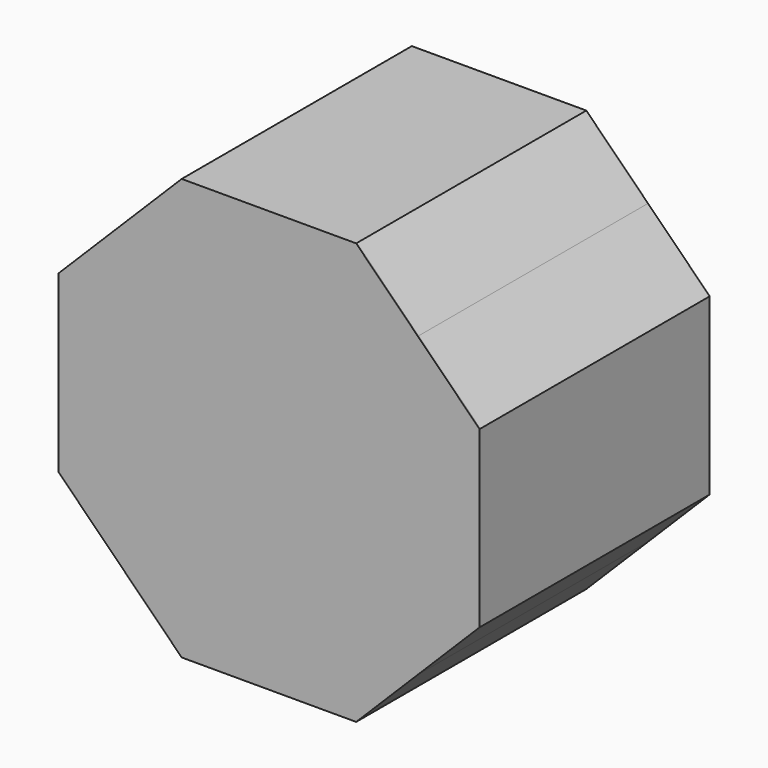
from build123d import *

# Parameters (mm, degrees)
F1_DEPTH = 38.1
F3_DEPTH = 0.127


with BuildPart() as f1:
    # F0 (on Front) → F1 (new body)
    with BuildSketch(Plane.XZ):
        Polygon((-19.794253, 19.794253), (-18.134918, 18.134918), (-10.623189, 25.646648), (10.623189, 25.646648), (18.134918, 18.134918), (19.794253, 19.794253), (11.595205, 27.993302), (-11.595205, 27.993302), align=None)
        Polygon((-25.646648, 10.623189), (-18.134918, 18.134918), (-19.794253, 19.794253), (-27.993302, 11.595205), (-27.993302, -11.595205), (-19.794253, -19.794253), (-18.134918, -18.134918), (-25.646648, -10.623189), align=None)
        Polygon((19.794253, 19.794253), (18.134918, 18.134918), (25.646648, 10.623189), (25.646648, -10.623189), (18.134918, -18.134918), (19.794253, -19.794253), (27.993302, -11.595205), (27.993302, 11.595205), align=None)
        Polygon((-10.623189, -25.646648), (-18.134918, -18.134918), (-19.794253, -19.794253), (-11.595205, -27.993302), (11.595205, -27.993302), (19.794253, -19.794253), (18.134918, -18.134918), (10.623189, -25.646648), align=None)
    extrude(amount=F1_DEPTH)

    # F2 (on face) → F3 (join)
    with BuildSketch(Plane.XZ.offset(38.1)):
        Polygon((-11.595205, 27.993302), (-27.993302, 11.595205), (-27.993302, -11.595205), (-11.595205, -27.993302), (11.595205, -27.993302), (27.993302, -11.595205), (27.993302, 11.595205), (11.595205, 27.993302), align=None)
    extrude(amount=F3_DEPTH)


solid = f1.part
